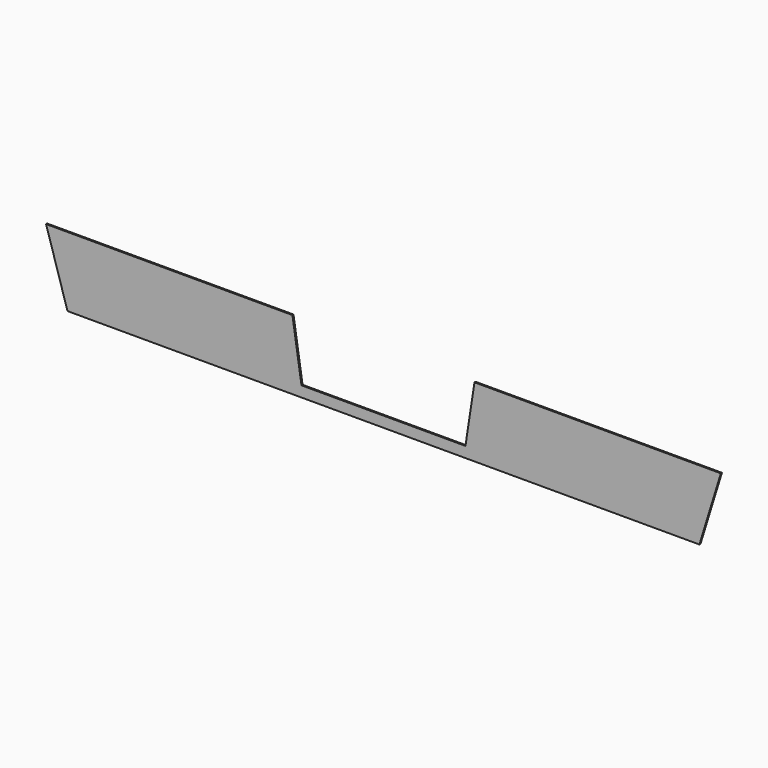
from build123d import *

# Parameters (mm, degrees)
F2_DEPTH = 3.175


with BuildPart() as f2:
    # F1 (on offset) → F2 (new body)
    with BuildSketch(Plane.XZ.offset(25.4)):
        Polygon((584.2, 0), (0, 0), (50.8, -165.1), (1549.4, -165.1), (1600.2, 0), (1016, 0), (994.507692, -139.7), (800.1, -139.7), (605.692308, -139.7), align=None)
    extrude(amount=F2_DEPTH)


solid = f2.part
